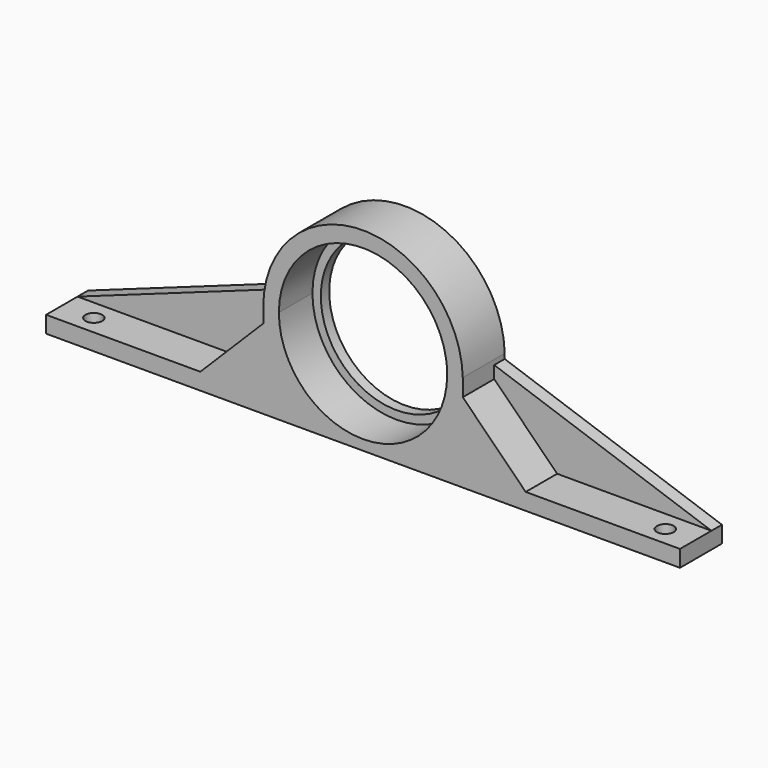
from build123d import *

# Parameters (mm, degrees)
F1_DEPTH = 10
F0_R     = 14.45
F2_DEPTH = 1.5875
F3_R     = 1.6
F4_DEPTH = 6.35
F5_DEPTH = 2
F6_DEPTH = 2
F7_DEPTH = 10
F8_DEPTH = 2.5


with BuildPart() as f1:
    # F0 (on Front) → F1 (new body)
    with BuildSketch(Plane.XZ):
        with BuildLine():
            Line((-60.452, 3.175), (-60.452, 0))
            Line((-60.452, 0), (-15.875, 0))
            Line((-15.875, 0), (15.85, 0))
            Line((15.85, 0), (60.452, 0))
            Line((60.452, 0), (60.452, 3.175))
            Line((60.452, 3.175), (31.025, 3.175))
            Line((31.025, 3.175), (19.025, 3.175))
            Line((19.025, 3.175), (19.025, 15.175))
            Line((19.025, 15.175), (19.025, 17.53616))
            Line((19.025, 17.53616), (19.025, 18.46384))
            ThreePointArc((19.025, 18.46384), (-0.231937, 37.02924), (-19.030653, 18))
            Line((-19.030653, 18), (-19.030653, 15.175))
            Line((-19.030653, 15.175), (-19.030653, 3.175))
            Line((-19.030653, 3.175), (-31.030653, 3.175))
            Line((-31.030653, 3.175), (-60.452, 3.175))
        make_face()
        with BuildLine():
            ThreePointArc((-16.05, 18), (-1.266886, 33.999922), (15.85, 20.525866))
            ThreePointArc((15.85, 20.525866), (15.999922, 19.266886), (16.05, 18))
            ThreePointArc((16.05, 18), (0, 1.95), (-16.05, 18))
        make_face(mode=Mode.SUBTRACT)
    extrude(amount=F1_DEPTH)

    # F0 (on Front) → F2 (join)
    with BuildSketch(Plane.XZ):
        with BuildLine():
            ThreePointArc((16.05, 18), (15.999922, 19.266886), (15.85, 20.525866))
            ThreePointArc((15.85, 20.525866), (-1.266886, 33.999922), (-16.05, 18))
            ThreePointArc((-16.05, 18), (0, 1.95), (16.05, 18))
        make_face()
        with Locations((0, 18)):
            Circle(F0_R, mode=Mode.SUBTRACT)
    extrude(amount=F2_DEPTH)

    # F3 (on face) → F4 (cut)
    with BuildSketch(Plane(origin=(0, 0, 0), x_dir=(1, 0, 0), z_dir=(0, 0, -1))):
        with Locations((-54.263, 6.35)):
            Circle(F3_R)
        with Locations((54.737, 6.35)):
            Circle(F3_R)
    extrude(amount=-F4_DEPTH, mode=Mode.SUBTRACT)

    # F0 (on Front) → F5 (join)
    with BuildSketch(Plane.XZ):
        with BuildLine():
            ThreePointArc((16.05, 18), (15.999922, 19.266886), (15.85, 20.525866))
            ThreePointArc((15.85, 20.525866), (-1.266886, 33.999922), (-16.05, 18))
            ThreePointArc((-16.05, 18), (0, 1.95), (16.05, 18))
        make_face()
        with Locations((0, 18)):
            Circle(F0_R, mode=Mode.SUBTRACT)
    extrude(amount=F5_DEPTH)

    # F0 (on Front) → F6 (join)
    with BuildSketch(Plane.XZ):
        Polygon((31.025, 3.175), (60.452, 3.175), (19.025, 17.53616), (19.025, 15.175), align=None)
        Polygon((-19.030653, 18), (-60.452, 3.175), (-31.030653, 3.175), (-19.030653, 15.175), align=None)
    extrude(amount=F6_DEPTH)

    # F0 (on Front) → F7 (join)
    with BuildSketch(Plane.XZ):
        Polygon((19.025, 3.175), (31.025, 3.175), (19.025, 15.175), align=None)
        Polygon((-19.030653, 15.175), (-31.030653, 3.175), (-19.030653, 3.175), align=None)
    extrude(amount=F7_DEPTH)

    # F0 (on Front) → F8 (join)
    with BuildSketch(Plane.XZ):
        Polygon((31.025, 3.175), (60.452, 3.175), (19.025, 17.53616), (19.025, 15.175), align=None)
        Polygon((-19.030653, 18), (-60.452, 3.175), (-31.030653, 3.175), (-19.030653, 15.175), align=None)
    extrude(amount=F8_DEPTH)


solid = f1.part
